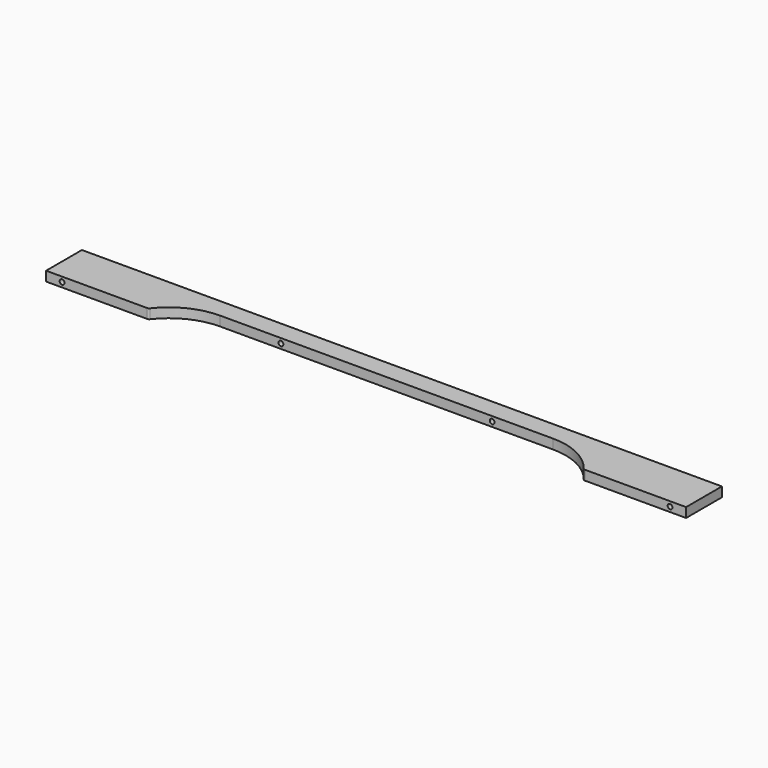
from build123d import *

# Parameters (mm, degrees)
F1_DEPTH = 19.05
F3_D     = 9.525
F4_R     = 5.08


with BuildPart() as f1:
    # F0 (on Top) → F1 (new body)
    with BuildSketch(Plane.XY):
        with BuildLine():
            Line((0, 88.9), (0, 0))
            Line((0, 0), (203.2, 0))
            ThreePointArc((203.2, 0), (248.003873, 37.392253), (304.8, 50.8))
            Line((304.8, 50.8), (965.2, 50.8))
            ThreePointArc((965.2, 50.8), (1021.996127, 37.392253), (1066.8, 0))
            Line((1066.8, 0), (1270, 0))
            Line((1270, 0), (1270, 88.9))
            Line((1270, 88.9), (0, 88.9))
        make_face()
    extrude(amount=F1_DEPTH)

    # F3 (through all)
    with Locations(Plane.XZ):
        with Locations((31.75, 9.525), (425.45, 9.525), (844.55, 9.525), (1238.25, 9.525)):
            Hole(F3_D / 2)

    # F4
    f4_edges = [f1.edges().sort_by_distance(p)[0] for p in [
        (203.2, 0, 9.525),
        (1066.8, 0, 9.525),
    ]]
    fillet(f4_edges, radius=F4_R)


solid = f1.part
